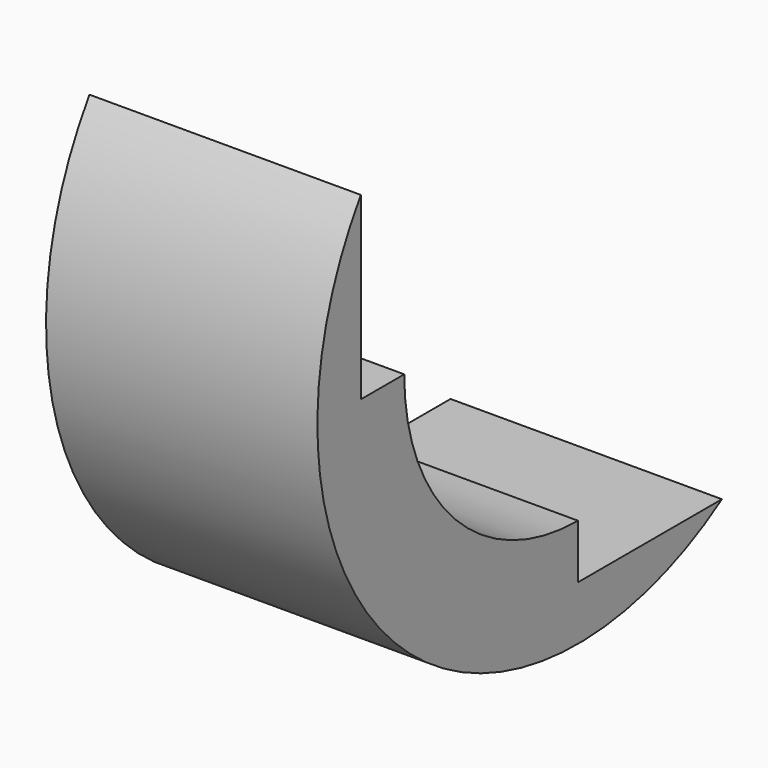
from build123d import *

# Parameters (mm, degrees)
BOX028_W      = 5
BOX028_H      = 10
BOX028_DEPTH  = 8
BOX027_W      = 5
BOX027_H      = 8
BOX027_DEPTH  = 10
TUBE011_R     = 6
TUBE011_R_2   = 4
TUBE011_DEPTH = 5


with BuildPart() as cube028:
    # Box028 → Box028 (new body)
    with BuildSketch(Plane(origin=(0, -2, 3), x_dir=(1, 0, 0), z_dir=(0, 0, 1))):
        with Locations((2.5, 5)):
            Rectangle(BOX028_W, BOX028_H)
    extrude(amount=BOX028_DEPTH)


with BuildPart() as cube027:
    # Box027 → Box027 (new body)
    with BuildSketch(Plane(origin=(0, 3, -2), x_dir=(1, 0, 0), z_dir=(0, 0, 1))):
        with Locations((2.5, 4)):
            Rectangle(BOX027_W, BOX027_H)
    extrude(amount=BOX027_DEPTH)


with BuildPart() as cut032:
    # Tube011 → Tube011 (new body)
    with BuildSketch(Plane(origin=(0, 3, 3), x_dir=(0, 0, -1), z_dir=(1, 0, 0))):
        Circle(TUBE011_R)
        Circle(TUBE011_R_2, mode=Mode.SUBTRACT)
    extrude(amount=TUBE011_DEPTH)

    # Cut031: cut Cube027
    add(cube027.part, mode=Mode.SUBTRACT)

    # Cut032: cut Cube028
    add(cube028.part, mode=Mode.SUBTRACT)


solid = cut032.part
